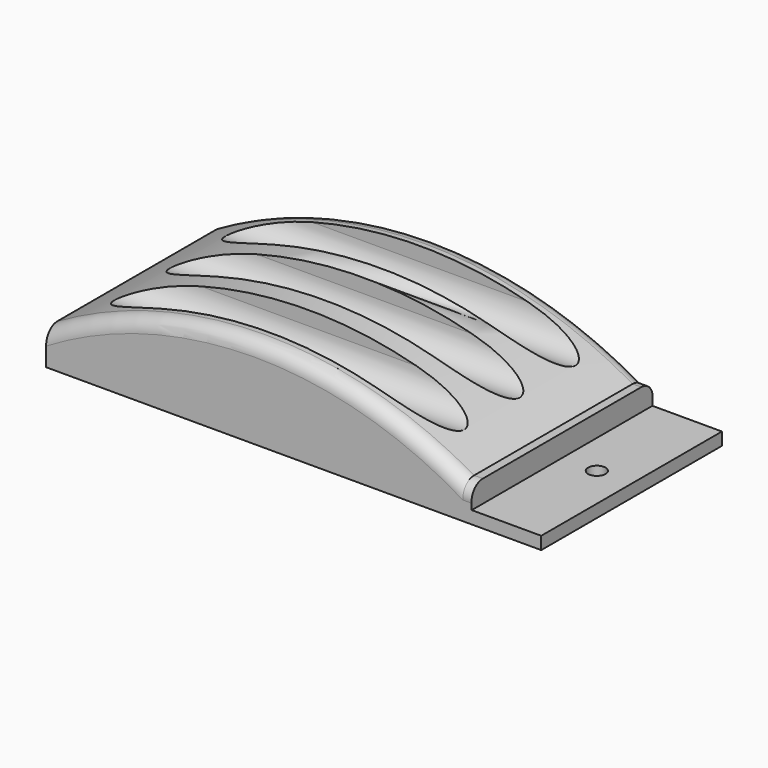
from build123d import *

# Parameters (mm, degrees)
F1_DEPTH  = 41.275
F2_W      = 36.195
F2_H      = 5.08
F3_DEPTH  = 76.201
F4_R      = 2.54
F5_R      = 2.54
F7_DEPTH  = 76.201
F9_DEPTH  = 1.5875
F10_W     = 41.275
F10_H     = 2.30983
F11_DEPTH = 12.7
F12_R     = 1.5875
F13_DEPTH = 2.31083


with BuildPart() as f1:
    # F0 (on Front) → F1 (new body)
    with BuildSketch(Plane.XZ):
        with BuildLine():
            Line((0, 6.35), (0, 0))
            Line((0, 0), (76.2, 0))
            Line((76.2, 0), (76.2, 6.35))
            ThreePointArc((76.2, 6.35), (38.1, 16.558864), (0, 6.35))
        make_face()
    extrude(amount=F1_DEPTH)

    # F2 (on face) → F3 (cut, through all)
    with BuildSketch(Plane(origin=(0, 0, 0), x_dir=(0, -1, 0), z_dir=(-1, 0, 0))):
        with Locations((20.6375, 2.54)):
            Rectangle(F2_W, F2_H)
    extrude(amount=-F3_DEPTH, mode=Mode.SUBTRACT)

    # F4
    f4_edges = [f1.edges().sort_by_distance(p)[0] for p in [
        (38.1, 0, 16.558864),
    ]]
    fillet(f4_edges, radius=F4_R)

    # F5
    f5_edges = [f1.edges().sort_by_distance(p)[0] for p in [
        (38.1, -41.275, 16.558864),
    ]]
    fillet(f5_edges, radius=F5_R)

    # F6 (on face) → F7 (cut, through all)
    with BuildSketch(Plane(origin=(0, 0, 0), x_dir=(0, -1, 0), z_dir=(-1, 0, 0))):
        with BuildLine():
            ThreePointArc((3.4925, 13.97), (7.9375, 9.525), (12.3825, 13.97))
            Line((12.3825, 13.97), (12.3825, 19.197213))
            ThreePointArc((12.3825, 19.197213), (7.9375, 23.642213), (3.4925, 19.197213))
            Line((3.4925, 19.197213), (3.4925, 13.97))
        make_face()
        with BuildLine():
            ThreePointArc((16.1925, 13.97), (20.6375, 9.525), (25.0825, 13.97))
            Line((25.0825, 13.97), (25.0825, 19.197213))
            ThreePointArc((25.0825, 19.197213), (20.6375, 23.642213), (16.1925, 19.197213))
            Line((16.1925, 19.197213), (16.1925, 13.97))
        make_face()
        with BuildLine():
            ThreePointArc((28.8925, 13.97), (33.3375, 9.525), (37.7825, 13.97))
            Line((37.7825, 13.97), (37.7825, 19.197213))
            ThreePointArc((37.7825, 19.197213), (33.3375, 23.642213), (28.8925, 19.197213))
            Line((28.8925, 19.197213), (28.8925, 13.97))
        make_face()
    extrude(amount=-F7_DEPTH, mode=Mode.SUBTRACT)

    # F8 (on face) → F9 (join)
    with BuildSketch(Plane.YZ.offset(76.2)):
        with BuildLine():
            ThreePointArc((-38.735, 6.35), (-40.681411, 5.457406), (-41.275, 3.400006))
            Line((-41.275, 3.400006), (-41.275, 0))
            Line((-41.275, 0), (0, 0))
            Line((0, 0), (0, 3.400006))
            ThreePointArc((0, 3.400006), (-0.593589, 5.457406), (-2.54, 6.35))
            Line((-2.54, 6.35), (-38.735, 6.35))
        make_face()
    extrude(amount=F9_DEPTH)

    # F10 (on face) → F11 (join)
    with BuildSketch(Plane.YZ.offset(77.7875)):
        with Locations((-20.6375, 1.154915)):
            Rectangle(F10_W, F10_H)
    extrude(amount=F11_DEPTH)

    # F12 (on face) → F13 (cut, through all)
    with BuildSketch(Plane.XY.offset(2.30983)):
        with Locations((84.1375, -20.6375)):
            Circle(F12_R)
    extrude(amount=-F13_DEPTH, mode=Mode.SUBTRACT)


solid = f1.part
